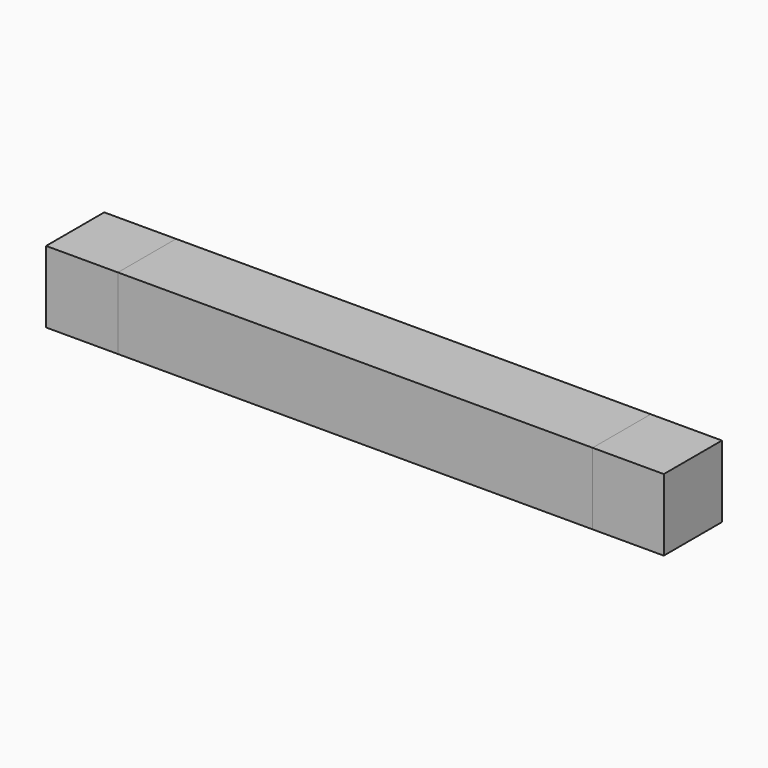
from build123d import *

# Parameters (mm, degrees)
F0_W     = 17.787475
F0_H     = 17.787475
F0_W_2   = 17.625764
F1_DEPTH = 18
F0_W_3   = 117.559042
F2_DEPTH = 18


with BuildPart() as f1:
    # F0 (on Front) → F1 (new body)
    with BuildSketch(Plane.XZ):
        with Locations((8.893738, 8.893738)):
            Rectangle(F0_W, F0_H)
        with Locations((144.159399, 8.893738)):
            Rectangle(F0_W_2, F0_H)
    extrude(amount=F1_DEPTH)


with BuildPart() as f2:
    # F0 (on Front) → F2 (new body)
    with BuildSketch(Plane.XZ):
        with Locations((76.566996, 8.893738)):
            Rectangle(F0_W_3, F0_H)
    extrude(amount=F2_DEPTH)


solid = Compound([f1.part, f2.part])
